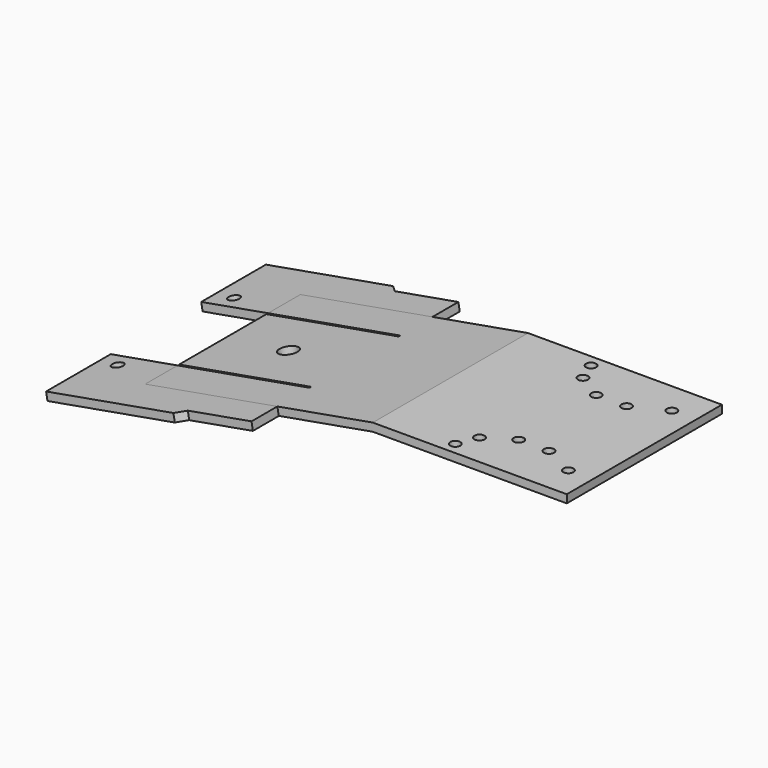
from build123d import *

# Parameters (mm, degrees)
F1_DEPTH = 152.4
F2_R     = 7.14375
F3_DEPTH = 63.5931574972
F4_R     = 3.96875
F5_DEPTH = 37.70193717
F7_DEPTH = 6.35
F8_R     = 4.365625
F8_W     = 105.4455175215
F8_H     = 1.5875
F9_DEPTH = 72.8023226846


with BuildPart() as f1:
    # F0 (on Front) → F1 (new body)
    with BuildSketch(Plane.XZ):
        Polygon((-152.4, 0), (0, 0), (0, 6.35), (-152.4, 6.35), (-331.2859139551, -25.192413099), (-330.2, -31.35093717), align=None)
    extrude(amount=-F1_DEPTH)

    # F2 (on face) → F3 (cut, through all)
    with BuildSketch(Plane(origin=(-5.6813362512, 0, 32.2204589924), x_dir=(0.984807753, 0, 0.1736481777), z_dir=(-0.1736481777, 0, 0.984807753))):
        with Locations((-278.2400531523, 76.2)):
            Circle(F2_R)
    extrude(amount=-F3_DEPTH, mode=Mode.SUBTRACT)

    # F4 (on face) → F5 (cut, through all)
    with BuildSketch(Plane.XY.offset(6.35)):
        with Locations((-19.05, 127)):
            Circle(F4_R)
        with Locations((-19.05, 25.4)):
            Circle(F4_R)
        with Locations((-88.9, 25.4)):
            Circle(F4_R)
        with Locations((-88.9, 127)):
            Circle(F4_R)
        with Locations((-95.25, 9.525)):
            Circle(F4_R)
        with Locations((-95.25, 142.875)):
            Circle(F4_R)
        with Locations((-68.2625, 114.3)):
            Circle(F4_R)
        with Locations((-44.45, 114.3)):
            Circle(F4_R)
        with Locations((-68.2625, 38.1)):
            Circle(F4_R)
        with Locations((-44.45, 38.1)):
            Circle(F4_R)
    extrude(amount=-F5_DEPTH, mode=Mode.SUBTRACT)

    # F6 (on face) → F7 (join)
    with BuildSketch(Plane(origin=(-5.6813362512, 0, 32.2204589924), x_dir=(0.984807753, 0, 0.1736481777), z_dir=(-0.1736481777, 0, 0.984807753))):
        Polygon((-330.6275531523, 120.65), (-330.6275531523, 152.4), (-225.1820356309, 152.4), (-225.1820356309, 177.8), (-275.9820356309, 177.8), (-282.3320356309, 184.15), (-383.9320356309, 184.15), (-383.9320356309, 120.65), align=None)
        Polygon((-383.9320356309, -31.75), (-282.3320356309, -31.75), (-275.9820356309, -25.4), (-225.1820356309, -25.4), (-225.1820356309, 0), (-330.6275531523, 0), (-330.6275531523, 31.75), (-383.9320356309, 31.75), align=None)
    extrude(amount=-F7_DEPTH)

    # F8 (on face) → F9 (cut, through all)
    with BuildSketch(Plane(origin=(-5.6813362512, 0, 32.2204589924), x_dir=(0.984807753, 0, 0.1736481777), z_dir=(-0.1736481777, 0, 0.984807753))):
        with Locations((-368.0570356309, 133.35)):
            Circle(F8_R)
        with Locations((-368.0570356309, 19.05)):
            Circle(F8_R)
        with Locations((-277.9047943916, 119.85625)):
            Rectangle(F8_W, F8_H)
        with Locations((-277.9047943916, 32.54375)):
            Rectangle(F8_W, F8_H)
    extrude(amount=-F9_DEPTH, mode=Mode.SUBTRACT)


solid = f1.part
